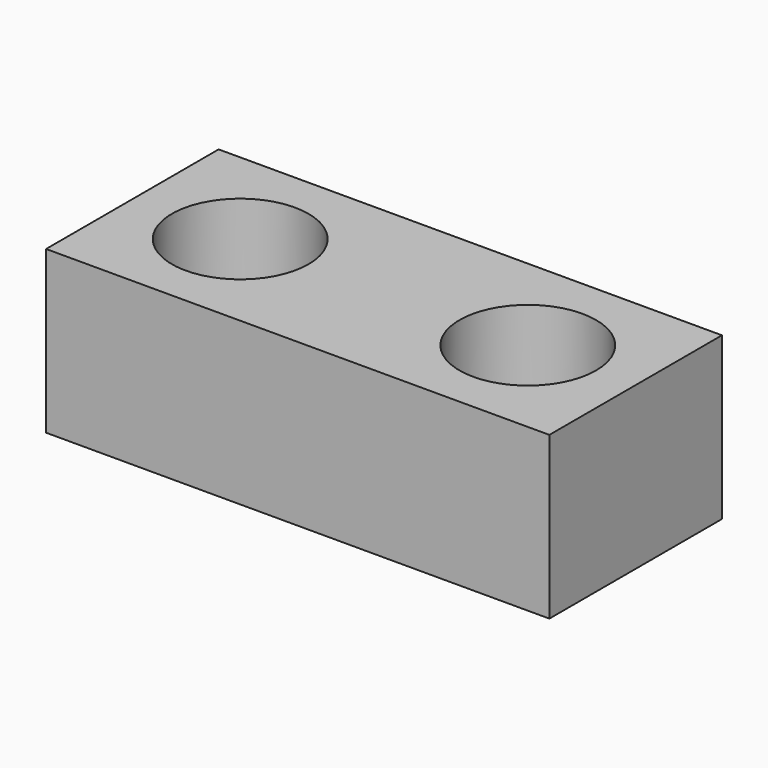
from build123d import *

# Parameters (mm, degrees)
F0_W     = 88.9
F0_H     = 38.1
F0_R     = 12.065
F1_DEPTH = 25.4
F2_W     = 88.9
F2_H     = 38.1
F3_DEPTH = 3.175


with BuildPart() as f1:
    # F0 (on Top) → F1 (new body)
    with BuildSketch(Plane.XY):
        with Locations((44.45, 19.05)):
            Rectangle(F0_W, F0_H)
        with Locations((19.05, 19.05)):
            Circle(F0_R, mode=Mode.SUBTRACT)
        with Locations((69.85, 19.05)):
            Circle(F0_R, mode=Mode.SUBTRACT)
    extrude(amount=F1_DEPTH)

    # F2 (on face) → F3 (join)
    with BuildSketch(Plane(origin=(0, 0, 0), x_dir=(1, 0, 0), z_dir=(0, 0, -1))):
        with Locations((44.45, -19.05)):
            Rectangle(F2_W, F2_H)
    extrude(amount=F3_DEPTH)


solid = f1.part
